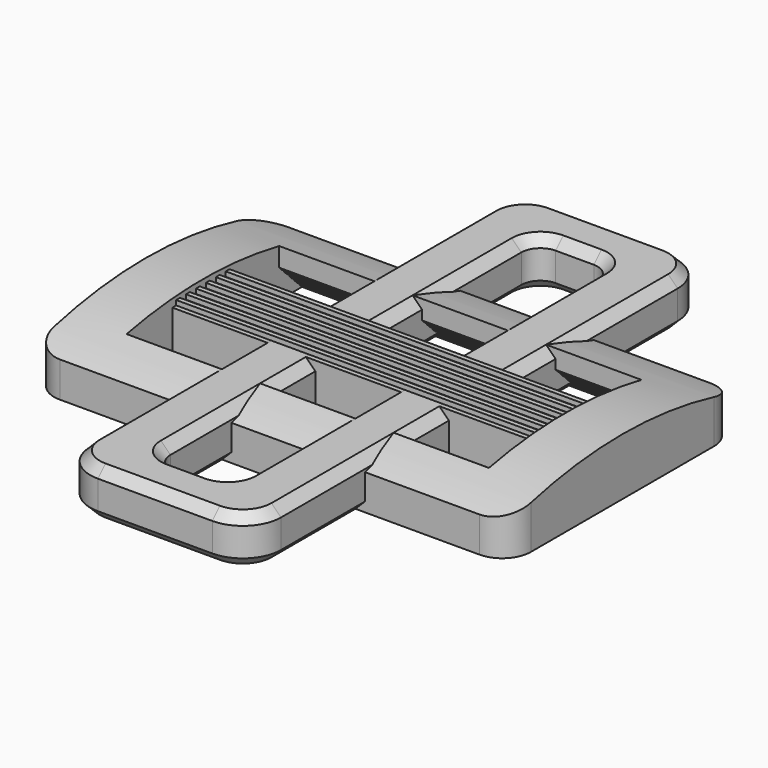
from build123d import *

# Parameters (mm, degrees)
PAD_DEPTH           = 25
SKETCH001_W         = 38
SKETCH001_H         = 6
POCKET_DEPTH        = 117.235807
POCKET_DEPTH_BACK   = 123.235807
SKETCH002_W         = 38
SKETCH002_H         = 8
POCKET001_DEPTH     = 1
SKETCH003_W         = 0.5
SKETCH003_H         = 0.5
PAD001_DEPTH        = 19
PAD002_DEPTH        = 19
LINEARPATTERN_COUNT = 6
LINEARPATTERN_PITCH = 1.3
FILLET_R            = 3
CHAMFER_SIZE        = 3
POCKET002_DEPTH     = 38
CHAMFER001_SIZE     = 1
PAD003_DEPTH        = 5
CHAMFER002_SIZE     = 1


with BuildPart() as body:
    # Sketch → Pad (new body, symmetric)
    with BuildSketch(Plane.YZ):
        with BuildLine():
            Line((-15, 0), (-15, 3.712086))
            ThreePointArc((15, 3.712086), (0, 6), (-15, 3.712086))
            Line((15, 0), (15, 3.712086))
            Line((-15, 0), (15, 0))
        make_face()
    extrude(amount=PAD_DEPTH, both=True)

    # Sketch001 → Pocket (cut, two sides)
    with BuildSketch(Plane.XY) as pocket_sk:
        with Locations((0, 7)):
            Rectangle(SKETCH001_W, SKETCH001_H)
    pocket = extrude(amount=-POCKET_DEPTH, mode=Mode.SUBTRACT) + extrude(pocket_sk.sketch, amount=POCKET_DEPTH_BACK, mode=Mode.SUBTRACT)

    # Mirrored: Pocket across Sketch001 H_Axis
    add(pocket.mirror(Plane.ZX), mode=Mode.SUBTRACT)

    # Sketch002 → Pocket001 (cut)
    with BuildSketch(Plane.XY.offset(6)):
        Rectangle(SKETCH002_W, SKETCH002_H)
    extrude(amount=-POCKET001_DEPTH, mode=Mode.SUBTRACT)

    # Sketch003 → Pad001 (join)
    with BuildSketch(Plane.YZ):
        with Locations((-3.25, 5.25)):
            Rectangle(SKETCH003_W, SKETCH003_H)
    pad001 = extrude(amount=PAD001_DEPTH)

    # Sketch003 → Pad002 (join)
    with BuildSketch(Plane.YZ):
        with Locations((-3.25, 5.25)):
            Rectangle(SKETCH003_W, SKETCH003_H)
    pad002 = extrude(amount=-PAD002_DEPTH)

    # LinearPattern: Pad001, Pad002 ×6
    with Locations(*[(0, i * LINEARPATTERN_PITCH, 0) for i in range(1, LINEARPATTERN_COUNT)]):
        add(pad001)
        add(pad002)

    # Fillet
    fillet_edges = [body.edges().sort_by_distance(p)[0] for p in [
        (25, 15, 1.856043),
        (25, -15, 1.856043),
        (-25, 15, 1.856043),
        (-25, -15, 1.856043),
    ]]
    fillet(fillet_edges, radius=FILLET_R)

    # Chamfer
    chamfer_edges = [body.edges().sort_by_distance(p)[0] for p in [
        (0, -10, 0),
        (0, 10, 0),
    ]]
    chamfer(chamfer_edges, length=CHAMFER_SIZE)

    # Sketch004 (on Edge57 of Chamfer) → Pocket002 (cut)
    with BuildSketch(Plane(origin=(19, -13, 0), x_dir=(0, -0.707107, -0.707107), z_dir=(-1, 0, 0))):
        Polygon((-0.471405, 0), (-0.707107, 0.235702), (-0.942809, 0), align=None)
        Polygon((-1.414214, 0), (-1.649916, 0.235702), (-1.885618, 0), align=None)
        Polygon((-2.357023, 0), (-2.592725, 0.235702), (-2.828427, 0), align=None)
        Polygon((-3.299832, 0), (-3.535534, 0.235702), (-3.771236, 0), align=None)
    pocket002 = extrude(amount=POCKET002_DEPTH, mode=Mode.SUBTRACT)

    # Mirrored001: Pocket002 across XZ
    add(pocket002.mirror(Plane.XZ), mode=Mode.SUBTRACT)

    # Chamfer001
    chamfer001_edges = [body.edges().sort_by_distance(p)[0] for p in [
        (0, -4, 0),
        (0, 4, 0),
    ]]
    chamfer(chamfer001_edges, length=CHAMFER001_SIZE)


with BuildPart() as body001:
    # Sketch005 → Pad003 (new body)
    with BuildSketch(Plane.XY):
        with BuildLine():
            ThreePointArc((-6, 30), (-8.828427, 28.828427), (-10, 26))
            Line((-10, -26), (-10, 26))
            ThreePointArc((-10, -26), (-8.828427, -28.828427), (-6, -30))
            Line((6, -30), (-6, -30))
            ThreePointArc((6, -30), (8.828427, -28.828427), (10, -26))
            Line((10, 26), (10, -26))
            ThreePointArc((10, 26), (8.828427, 28.828427), (6, 30))
            Line((-6, 30), (6, 30))
        make_face()
        with BuildLine():
            ThreePointArc((-2, 25), (-3.414214, 24.414214), (-4, 23))
            Line((-4, -23), (-4, 23))
            ThreePointArc((-4, -23), (-3.414214, -24.414214), (-2, -25))
            Line((2, -25), (-2, -25))
            ThreePointArc((2, -25), (3.414214, -24.414214), (4, -23))
            Line((4, 23), (4, -23))
            ThreePointArc((4, 23), (3.414214, 24.414214), (2, 25))
            Line((-2, 25), (2, 25))
        make_face(mode=Mode.SUBTRACT)
    extrude(amount=PAD003_DEPTH)

    # Chamfer002
    chamfer002_edges = [body001.edges().sort_by_distance(p)[0] for p in [
        (0, -30, 0),
        (0, -30, 5),
        (0, 25, 5),
        (0, 25, 0),
    ]]
    chamfer(chamfer002_edges, length=CHAMFER002_SIZE)


solid = Compound([body.part, body001.part])
